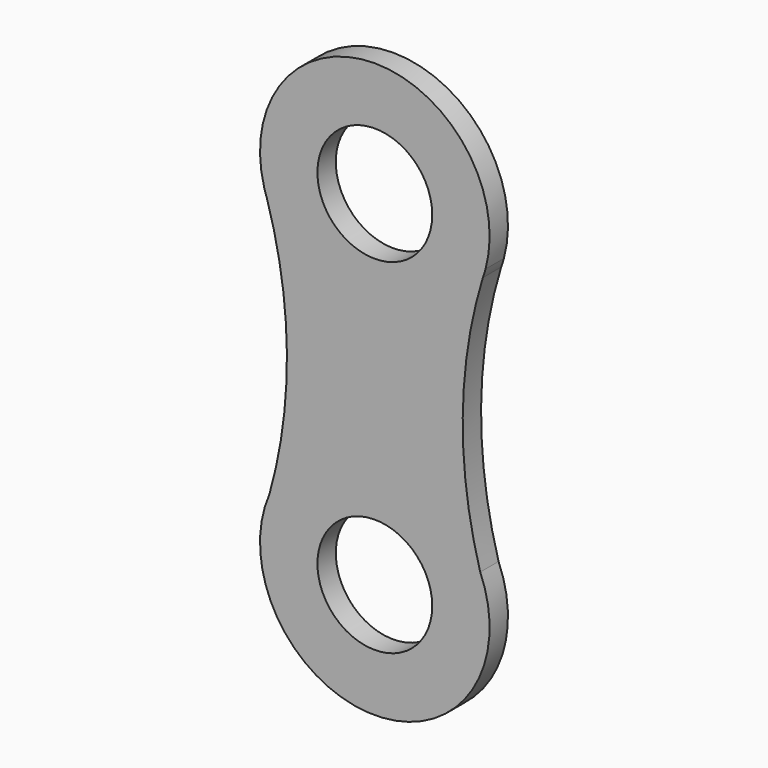
from build123d import *

# Parameters (mm, degrees)
F0_R     = 63.5
F1_DEPTH = 25.4


with BuildPart() as f1:
    # F0 (on Front) → F1 (new body)
    with BuildSketch(Plane.XZ):
        with BuildLine():
            ThreePointArc((122.467385, 156.873528), (120.955779, 152.181242), (119.489778, 147.474508))
            ThreePointArc((119.489778, 147.474508), (121.069825, 152.145112), (122.467385, 156.873528))
        make_face()
        with BuildLine():
            ThreePointArc((116.604021, -140.176026), (97.260641, 3.857772), (119.489778, 147.474508))
            ThreePointArc((119.489778, 147.474508), (120.955779, 152.181242), (122.467385, 156.873528))
            ThreePointArc((122.467385, 156.873528), (0, 317.5), (-122.467385, 156.873528))
            ThreePointArc((-122.467385, 156.873528), (-120.955779, 152.181242), (-119.489778, 147.474508))
            ThreePointArc((-119.489778, 147.474508), (-97.260641, 3.857772), (-116.604021, -140.176026))
            ThreePointArc((-116.604021, -140.176026), (0, -317.5), (116.604021, -140.176026))
        make_face()
        with Locations((0, -190.5)):
            Circle(F0_R, mode=Mode.SUBTRACT)
        with Locations((0, 190.5)):
            Circle(F0_R, mode=Mode.SUBTRACT)
        with BuildLine():
            ThreePointArc((-119.489778, 147.474508), (-120.955779, 152.181242), (-122.467385, 156.873528))
            ThreePointArc((-122.467385, 156.873528), (-121.069825, 152.145112), (-119.489778, 147.474508))
        make_face()
    extrude(amount=F1_DEPTH)


solid = f1.part
